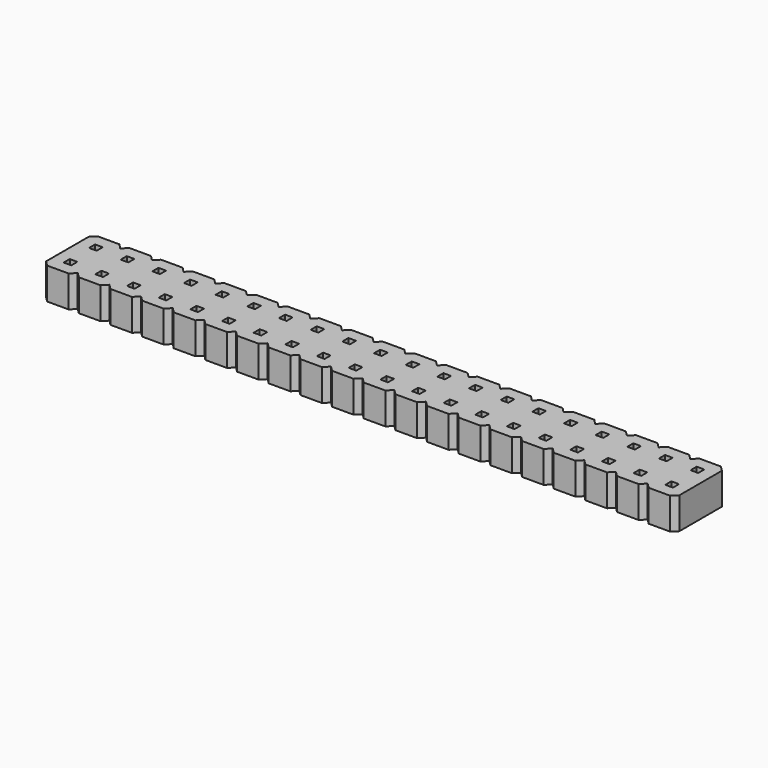
from build123d import *

# Parameters (mm, degrees)
F0_W     = 0.6
F0_H     = 0.6
F1_DEPTH = 2.5


with BuildPart() as f1:
    # F0 (on Top) → F1 (new body)
    with BuildSketch(Plane.XY):
        Polygon((0, 0.4), (0.4, 0), (2.1, 0), (2.5, 0.4), (2.9, 0), (4.6, 0), (5, 0.4), (5.4, 0), (7.1, 0), (7.5, 0.4), (7.9, 0), (9.6, 0), (10, 0.4), (10.4, 0), (12.1, 0), (12.5, 0.4), (12.9, 0), (14.6, 0), (15, 0.4), (15.4, 0), (17.1, 0), (17.5, 0.4), (17.9, 0), (19.6, 0), (20, 0.4), (20.4, 0), (22.1, 0), (22.5, 0.4), (22.9, 0), (24.6, 0), (25, 0.4), (25.4, 0), (27.1, 0), (27.5, 0.4), (27.9, 0), (29.6, 0), (30, 0.4), (30.4, 0), (32.1, 0), (32.5, 0.4), (32.9, 0), (34.6, 0), (35, 0.4), (35.4, 0), (37.1, 0), (37.5, 0.4), (37.9, 0), (39.6, 0), (40, 0.4), (40.4, 0), (42.1, 0), (42.5, 0.4), (42.9, 0), (44.6, 0), (45, 0.4), (45.4, 0), (47.1, 0), (47.5, 0.4), (47.9, 0), (49.6, 0), (50, 0.4), (50, 4.6), (49.6, 5), (47.9, 5), (47.5, 4.6), (47.1, 5), (45.4, 5), (45, 4.6), (44.6, 5), (42.9, 5), (42.5, 4.6), (42.1, 5), (40.4, 5), (40, 4.6), (39.6, 5), (37.9, 5), (37.5, 4.6), (37.1, 5), (35.4, 5), (35, 4.6), (34.6, 5), (32.9, 5), (32.5, 4.6), (32.1, 5), (30.4, 5), (30, 4.6), (29.6, 5), (27.9, 5), (27.5, 4.6), (27.1, 5), (25.4, 5), (25, 4.6), (24.6, 5), (22.9, 5), (22.5, 4.6), (22.1, 5), (20.4, 5), (20, 4.6), (19.6, 5), (17.9, 5), (17.5, 4.6), (17.1, 5), (15.4, 5), (15, 4.6), (14.6, 5), (12.9, 5), (12.5, 4.6), (12.1, 5), (10.4, 5), (10, 4.6), (9.6, 5), (7.9, 5), (7.5, 4.6), (7.1, 5), (5.4, 5), (5, 4.6), (4.6, 5), (2.9, 5), (2.5, 4.6), (2.1, 5), (0.4, 5), (0, 4.6), align=None)
        with Locations((1.25, 1.25)):
            Rectangle(F0_W, F0_H, mode=Mode.SUBTRACT)
        with Locations((3.75, 1.25)):
            Rectangle(F0_W, F0_H, mode=Mode.SUBTRACT)
        with Locations((6.25, 1.25)):
            Rectangle(F0_W, F0_H, mode=Mode.SUBTRACT)
        with Locations((8.75, 1.25)):
            Rectangle(F0_W, F0_H, mode=Mode.SUBTRACT)
        with Locations((11.25, 1.25)):
            Rectangle(F0_W, F0_H, mode=Mode.SUBTRACT)
        with Locations((13.75, 1.25)):
            Rectangle(F0_W, F0_H, mode=Mode.SUBTRACT)
        with Locations((16.25, 1.25)):
            Rectangle(F0_W, F0_H, mode=Mode.SUBTRACT)
        with Locations((18.75, 1.25)):
            Rectangle(F0_W, F0_H, mode=Mode.SUBTRACT)
        with Locations((21.25, 1.25)):
            Rectangle(F0_W, F0_H, mode=Mode.SUBTRACT)
        with Locations((23.75, 1.25)):
            Rectangle(F0_W, F0_H, mode=Mode.SUBTRACT)
        with Locations((26.25, 1.25)):
            Rectangle(F0_W, F0_H, mode=Mode.SUBTRACT)
        with Locations((28.75, 1.25)):
            Rectangle(F0_W, F0_H, mode=Mode.SUBTRACT)
        with Locations((31.25, 1.25)):
            Rectangle(F0_W, F0_H, mode=Mode.SUBTRACT)
        with Locations((33.75, 1.25)):
            Rectangle(F0_W, F0_H, mode=Mode.SUBTRACT)
        with Locations((36.25, 1.25)):
            Rectangle(F0_W, F0_H, mode=Mode.SUBTRACT)
        with Locations((38.75, 1.25)):
            Rectangle(F0_W, F0_H, mode=Mode.SUBTRACT)
        with Locations((41.25, 1.25)):
            Rectangle(F0_W, F0_H, mode=Mode.SUBTRACT)
        with Locations((43.75, 1.25)):
            Rectangle(F0_W, F0_H, mode=Mode.SUBTRACT)
        with Locations((46.25, 1.25)):
            Rectangle(F0_W, F0_H, mode=Mode.SUBTRACT)
        with Locations((48.75, 1.25)):
            Rectangle(F0_W, F0_H, mode=Mode.SUBTRACT)
        with Locations((1.25, 3.75)):
            Rectangle(F0_W, F0_H, mode=Mode.SUBTRACT)
        with Locations((3.75, 3.75)):
            Rectangle(F0_W, F0_H, mode=Mode.SUBTRACT)
        with Locations((6.25, 3.75)):
            Rectangle(F0_W, F0_H, mode=Mode.SUBTRACT)
        with Locations((8.75, 3.75)):
            Rectangle(F0_W, F0_H, mode=Mode.SUBTRACT)
        with Locations((11.25, 3.75)):
            Rectangle(F0_W, F0_H, mode=Mode.SUBTRACT)
        with Locations((13.75, 3.75)):
            Rectangle(F0_W, F0_H, mode=Mode.SUBTRACT)
        with Locations((16.25, 3.75)):
            Rectangle(F0_W, F0_H, mode=Mode.SUBTRACT)
        with Locations((18.75, 3.75)):
            Rectangle(F0_W, F0_H, mode=Mode.SUBTRACT)
        with Locations((21.25, 3.75)):
            Rectangle(F0_W, F0_H, mode=Mode.SUBTRACT)
        with Locations((23.75, 3.75)):
            Rectangle(F0_W, F0_H, mode=Mode.SUBTRACT)
        with Locations((26.25, 3.75)):
            Rectangle(F0_W, F0_H, mode=Mode.SUBTRACT)
        with Locations((28.75, 3.75)):
            Rectangle(F0_W, F0_H, mode=Mode.SUBTRACT)
        with Locations((31.25, 3.75)):
            Rectangle(F0_W, F0_H, mode=Mode.SUBTRACT)
        with Locations((33.75, 3.75)):
            Rectangle(F0_W, F0_H, mode=Mode.SUBTRACT)
        with Locations((36.25, 3.75)):
            Rectangle(F0_W, F0_H, mode=Mode.SUBTRACT)
        with Locations((38.75, 3.75)):
            Rectangle(F0_W, F0_H, mode=Mode.SUBTRACT)
        with Locations((41.25, 3.75)):
            Rectangle(F0_W, F0_H, mode=Mode.SUBTRACT)
        with Locations((43.75, 3.75)):
            Rectangle(F0_W, F0_H, mode=Mode.SUBTRACT)
        with Locations((46.25, 3.75)):
            Rectangle(F0_W, F0_H, mode=Mode.SUBTRACT)
        with Locations((48.75, 3.75)):
            Rectangle(F0_W, F0_H, mode=Mode.SUBTRACT)
    extrude(amount=F1_DEPTH)


solid = f1.part
